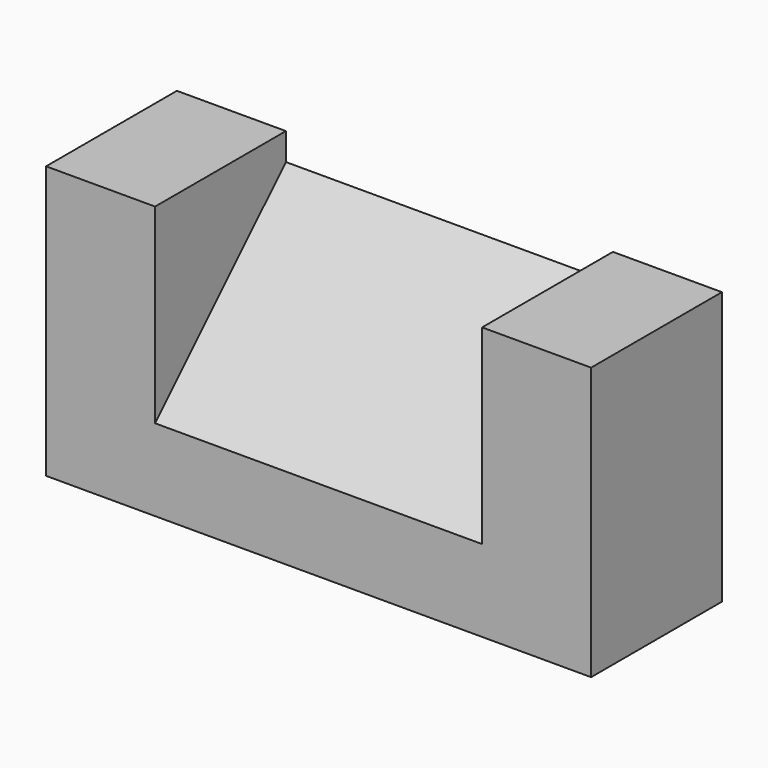
from build123d import *

# Parameters (mm, degrees)
F0_W     = 127
F0_H     = 63.5
F1_DEPTH = 38.1
F3_W     = 38.1
F3_H     = 63.5
F4_DEPTH = 25.4
F6_DEPTH = 76.2
F8_DEPTH = 25.4


with BuildPart() as f1:
    # F0 (on Front) → F1 (new body)
    with BuildSketch(Plane.XZ):
        Rectangle(F0_W, F0_H)
    extrude(amount=F1_DEPTH)

    # F3 (on face) → F4 (cut)
    with BuildSketch(Plane.YZ.offset(63.5)):
        with Locations((-19.05, 0)):
            Rectangle(F3_W, F3_H)
    extrude(amount=-F4_DEPTH, mode=Mode.SUBTRACT)

    # F5 (on face) → F6 (cut)
    with BuildSketch(Plane.YZ.offset(38.1)):
        Polygon((-38.1, 31.75), (-38.1, -12.7), (0, 25.4), (0, 31.75), align=None)
    extrude(amount=-F6_DEPTH, mode=Mode.SUBTRACT)

    # F7 (on face) → F8 (join)
    with BuildSketch(Plane.YZ.offset(38.1)):
        Polygon((-38.1, -12.7), (0, 25.4), (0, 31.75), (-38.1, 31.75), align=None)
        Polygon((-38.1, -31.75), (0, -31.75), (0, 25.4), (-38.1, -12.7), align=None)
    extrude(amount=F8_DEPTH)


solid = f1.part
